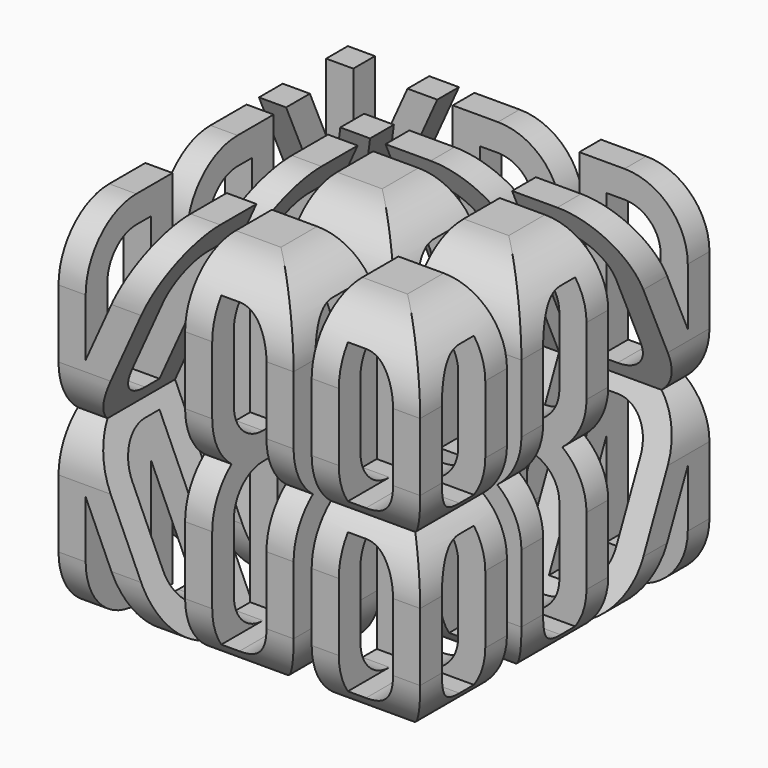
from build123d import *

# Parameters (mm, degrees)
F1_DEPTH = 254
F2_ANGLE = 90


with BuildPart() as f1:
    # F0 (on Front) → F1 (new body)
    with BuildSketch(Plane.XZ):
        Polygon((-107.95, 42.3333333333), (-107.95, 127), (-127, 127), (-127, 0), (-127, -127), (-107.95, -127), (-107.95, -42.3333333333), (-69.85, -127), (-48.96004413, -127), (-106.11004413, 0), (-48.96004413, 127), (-69.85, 127), align=None)
    extrude(amount=F1_DEPTH)


with BuildPart() as f1b:
    # F0 (on Front) → F1, piece 2 (new body)
    with BuildSketch(Plane.XZ):
        with BuildLine():
            Line((-6.35, 127), (-38.1, 127))
            Line((-38.1, 127), (-38.1, 0))
            Line((-38.1, 0), (-38.1, -127))
            Line((-38.1, -127), (-6.35, -127))
            ThreePointArc((-6.35, -127), (25.0808964237, -113.9808964237), (38.1, -82.55))
            Line((38.1, -82.55), (38.1, 0))
            Line((38.1, 0), (38.1, 82.55))
            ThreePointArc((38.1, 82.55), (25.0808964237, 113.9808964237), (-6.35, 127))
        make_face()
        with BuildLine():
            ThreePointArc((-6.35, 107.95), (11.6105122421, 100.5105122421), (19.05, 82.55))
            Line((19.05, 82.55), (19.05, 0))
            Line((19.05, 0), (19.05, -82.55))
            ThreePointArc((19.05, -82.55), (11.6105122421, -100.5105122421), (-6.35, -107.95))
            Line((-6.35, -107.95), (-19.05, -107.95))
            Line((-19.05, -107.95), (-19.05, 0))
            Line((-19.05, 0), (-19.05, 107.95))
            Line((-19.05, 107.95), (-6.35, 107.95))
        make_face(mode=Mode.SUBTRACT)
    extrude(amount=F1_DEPTH)


with BuildPart() as f1c:
    # F0 (on Front) → F1, piece 3 (new body)
    with BuildSketch(Plane.XZ):
        with BuildLine():
            ThreePointArc((127, 82.55), (113.9808964237, 113.9808964237), (82.55, 127))
            Line((82.55, 127), (50.8, 127))
            Line((50.8, 127), (50.8, 0))
            Line((50.8, 0), (50.8, -127))
            Line((50.8, -127), (82.55, -127))
            ThreePointArc((82.55, -127), (113.9808964237, -113.9808964237), (127, -82.55))
            Line((127, -82.55), (127, -34.925))
            ThreePointArc((127, -34.925), (122.5375813662, -15.5137703512), (110.0463065702, 0))
            ThreePointArc((110.0463065702, 0), (122.5375813662, 15.5137703512), (127, 34.925))
            Line((127, 34.925), (127, 82.55))
        make_face()
        with BuildLine():
            Line((69.85, -9.525), (82.55, -9.525))
            ThreePointArc((82.55, -9.525), (100.5105122421, -16.9644877579), (107.95, -34.925))
            Line((107.95, -34.925), (107.95, -82.55))
            ThreePointArc((107.95, -82.55), (100.5105122421, -100.5105122421), (82.55, -107.95))
            Line((82.55, -107.95), (69.85, -107.95))
            Line((69.85, -107.95), (69.85, -9.525))
        make_face(mode=Mode.SUBTRACT)
        with BuildLine():
            Line((69.85, 9.525), (69.85, 107.95))
            Line((69.85, 107.95), (82.55, 107.95))
            ThreePointArc((82.55, 107.95), (100.5105122421, 100.5105122421), (107.95, 82.55))
            Line((107.95, 82.55), (107.95, 34.925))
            ThreePointArc((107.95, 34.925), (100.5105122421, 16.9644877579), (82.55, 9.525))
            Line((82.55, 9.525), (69.85, 9.525))
        make_face(mode=Mode.SUBTRACT)
    extrude(amount=F1_DEPTH)


with BuildPart() as f1d:
    # F0 (on Front) → F1, piece 4 (new body)
    with BuildSketch(Plane.XZ):
        with BuildLine():
            Line((69.85, -171.45), (69.85, -269.875))
            Line((69.85, -269.875), (82.55, -269.875))
            ThreePointArc((82.55, -269.875), (100.5105122421, -262.4355122421), (107.95, -244.475))
            Line((107.95, -244.475), (107.95, -196.85))
            ThreePointArc((107.95, -196.85), (100.5105122421, -178.8894877579), (82.55, -171.45))
            Line((82.55, -171.45), (69.85, -171.45))
        make_face()
    extrude(amount=F1_DEPTH)


with BuildPart() as f1e:
    # F0 (on Front) → F1, piece 5 (new body)
    with BuildSketch(Plane.XZ):
        with BuildLine():
            ThreePointArc((19.05, -196.85), (11.6105122421, -178.8894877579), (-6.35, -171.45))
            Line((-6.35, -171.45), (-19.05, -171.45))
            Line((-19.05, -171.45), (-19.05, -279.4))
            Line((-19.05, -279.4), (-19.05, -387.35))
            Line((-19.05, -387.35), (-6.35, -387.35))
            ThreePointArc((-6.35, -387.35), (11.6105122421, -379.9105122421), (19.05, -361.95))
            Line((19.05, -361.95), (19.05, -279.4))
            Line((19.05, -279.4), (19.05, -196.85))
        make_face()
    extrude(amount=F1_DEPTH)


with BuildPart() as f1f:
    # F0 (on Front) → F1, piece 6 (new body)
    with BuildSketch(Plane.XZ):
        with BuildLine():
            Line((69.85, -288.925), (69.85, -387.35))
            Line((69.85, -387.35), (82.55, -387.35))
            ThreePointArc((82.55, -387.35), (100.5105122421, -379.9105122421), (107.95, -361.95))
            Line((107.95, -361.95), (107.95, -314.325))
            ThreePointArc((107.95, -314.325), (100.5105122421, -296.3644877579), (82.55, -288.925))
            Line((82.55, -288.925), (69.85, -288.925))
        make_face()
    extrude(amount=F1_DEPTH)


with BuildPart() as f1g:
    # F0 (on Front) → F1, piece 7 (new body)
    with BuildSketch(Plane.XZ):
        Polygon((-38.1, -152.4), (-48.96004413, -152.4), (-106.11004413, -279.4), (-48.96004413, -406.4), (-38.1, -406.4), (-38.1, -279.4), align=None)
    extrude(amount=F1_DEPTH)


with BuildPart() as f1h:
    # F0 (on Front) → F1, piece 8 (new body)
    with BuildSketch(Plane.XZ):
        Polygon((-107.95, -237.0666666667), (-69.85, -152.4), (-107.95, -152.4), align=None)
    extrude(amount=F1_DEPTH)


with BuildPart() as f1i:
    # F0 (on Front) → F1, piece 9 (new body)
    with BuildSketch(Plane.XZ):
        with BuildLine():
            ThreePointArc((-6.35, -152.4), (25.0808964237, -165.4191035763), (38.1, -196.85))
            Line((38.1, -196.85), (38.1, -279.4))
            Line((38.1, -279.4), (38.1, -361.95))
            ThreePointArc((38.1, -361.95), (25.0808964237, -393.3808964237), (-6.35, -406.4))
            Line((-6.35, -406.4), (50.8, -406.4))
            Line((50.8, -406.4), (50.8, -279.4))
            Line((50.8, -279.4), (50.8, -152.4))
            Line((50.8, -152.4), (-6.35, -152.4))
        make_face()
    extrude(amount=F1_DEPTH)


with BuildPart() as f1j:
    # F0 (on Front) → F1, piece 10 (new body)
    with BuildSketch(Plane.XZ):
        with BuildLine():
            ThreePointArc((82.55, -152.4), (113.9808964237, -165.4191035763), (127, -196.85))
            Line((127, -196.85), (127, -152.4))
            Line((127, -152.4), (82.55, -152.4))
        make_face()
    extrude(amount=F1_DEPTH)


with BuildPart() as f1k:
    # F0 (on Front) → F1, piece 11 (new body)
    with BuildSketch(Plane.XZ):
        Polygon((-107.95, -406.4), (-69.85, -406.4), (-107.95, -321.7333333333), align=None)
    extrude(amount=F1_DEPTH)


with BuildPart() as f1l:
    # F0 (on Front) → F1, piece 12 (new body)
    with BuildSketch(Plane.XZ):
        with BuildLine():
            ThreePointArc((127, -244.475), (122.5375813662, -263.8862296488), (110.0463065702, -279.4))
            ThreePointArc((110.0463065702, -279.4), (122.5375813662, -294.9137703512), (127, -314.325))
            Line((127, -314.325), (127, -244.475))
        make_face()
    extrude(amount=F1_DEPTH)


with BuildPart() as f1m:
    # F0 (on Front) → F1, piece 13 (new body)
    with BuildSketch(Plane.XZ):
        with BuildLine():
            Line((127, -406.4), (127, -361.95))
            ThreePointArc((127, -361.95), (113.9808964237, -393.3808964237), (82.55, -406.4))
            Line((82.55, -406.4), (127, -406.4))
        make_face()
    extrude(amount=F1_DEPTH)


with BuildPart() as f1d_1:
    # F2: moved
    add(f1d.part.rotate(Axis((-107.95, -254, -194.7333333333), (0, 0, -1)), F2_ANGLE))


with BuildPart() as f1m_1:
    # F2: moved
    add(f1m.part.rotate(Axis((-107.95, -254, -194.7333333333), (0, 0, -1)), F2_ANGLE))


with BuildPart() as f1l_1:
    # F2: moved
    add(f1l.part.rotate(Axis((-107.95, -254, -194.7333333333), (0, 0, -1)), F2_ANGLE))


with BuildPart() as f1k_1:
    # F2: moved
    add(f1k.part.rotate(Axis((-107.95, -254, -194.7333333333), (0, 0, -1)), F2_ANGLE))


with BuildPart() as f1j_1:
    # F2: moved
    add(f1j.part.rotate(Axis((-107.95, -254, -194.7333333333), (0, 0, -1)), F2_ANGLE))


with BuildPart() as f1g_1:
    # F2: moved
    add(f1g.part.rotate(Axis((-107.95, -254, -194.7333333333), (0, 0, -1)), F2_ANGLE))


with BuildPart() as f1i_1:
    # F2: moved
    add(f1i.part.rotate(Axis((-107.95, -254, -194.7333333333), (0, 0, -1)), F2_ANGLE))


with BuildPart() as f1h_1:
    # F2: moved
    add(f1h.part.rotate(Axis((-107.95, -254, -194.7333333333), (0, 0, -1)), F2_ANGLE))


with BuildPart() as f1f_1:
    # F2: moved
    add(f1f.part.rotate(Axis((-107.95, -254, -194.7333333333), (0, 0, -1)), F2_ANGLE))


with BuildPart() as f1e_1:
    # F2: moved
    add(f1e.part.rotate(Axis((-107.95, -254, -194.7333333333), (0, 0, -1)), F2_ANGLE))


with BuildPart() as f1_1:
    # F3: moved
    add(f1.part.moved(Location((19.05, -234.95, -279.4))))

    # F4: cut F1h, F1g, F1i, F1j, F1l, F1m, F1k, F1e, F1d, F1f
    add(f1h_1.part, mode=Mode.SUBTRACT)
    add(f1g_1.part, mode=Mode.SUBTRACT)
    add(f1i_1.part, mode=Mode.SUBTRACT)
    add(f1j_1.part, mode=Mode.SUBTRACT)
    add(f1l_1.part, mode=Mode.SUBTRACT)
    add(f1m_1.part, mode=Mode.SUBTRACT)
    add(f1k_1.part, mode=Mode.SUBTRACT)
    add(f1e_1.part, mode=Mode.SUBTRACT)
    add(f1d_1.part, mode=Mode.SUBTRACT)
    add(f1f_1.part, mode=Mode.SUBTRACT)


with BuildPart() as f1b_1:
    # F3: moved
    add(f1b.part.moved(Location((19.05, -234.95, -279.4))))

    # F4: cut F1h, F1g, F1i, F1j, F1l, F1m, F1k, F1e, F1d, F1f
    add(f1h_1.part, mode=Mode.SUBTRACT)
    add(f1g_1.part, mode=Mode.SUBTRACT)
    add(f1i_1.part, mode=Mode.SUBTRACT)
    add(f1j_1.part, mode=Mode.SUBTRACT)
    add(f1l_1.part, mode=Mode.SUBTRACT)
    add(f1m_1.part, mode=Mode.SUBTRACT)
    add(f1k_1.part, mode=Mode.SUBTRACT)
    add(f1e_1.part, mode=Mode.SUBTRACT)
    add(f1d_1.part, mode=Mode.SUBTRACT)
    add(f1f_1.part, mode=Mode.SUBTRACT)


with BuildPart() as f1c_1:
    # F3: moved
    add(f1c.part.moved(Location((19.05, -234.95, -279.4))))

    # F4: cut F1h, F1g, F1i, F1j, F1l, F1m, F1k, F1e, F1d, F1f
    add(f1h_1.part, mode=Mode.SUBTRACT)
    add(f1g_1.part, mode=Mode.SUBTRACT)
    add(f1i_1.part, mode=Mode.SUBTRACT)
    add(f1j_1.part, mode=Mode.SUBTRACT)
    add(f1l_1.part, mode=Mode.SUBTRACT)
    add(f1m_1.part, mode=Mode.SUBTRACT)
    add(f1k_1.part, mode=Mode.SUBTRACT)
    add(f1e_1.part, mode=Mode.SUBTRACT)
    add(f1d_1.part, mode=Mode.SUBTRACT)
    add(f1f_1.part, mode=Mode.SUBTRACT)


solid = Compound([f1_1.part, f1b_1.part, f1c_1.part])
